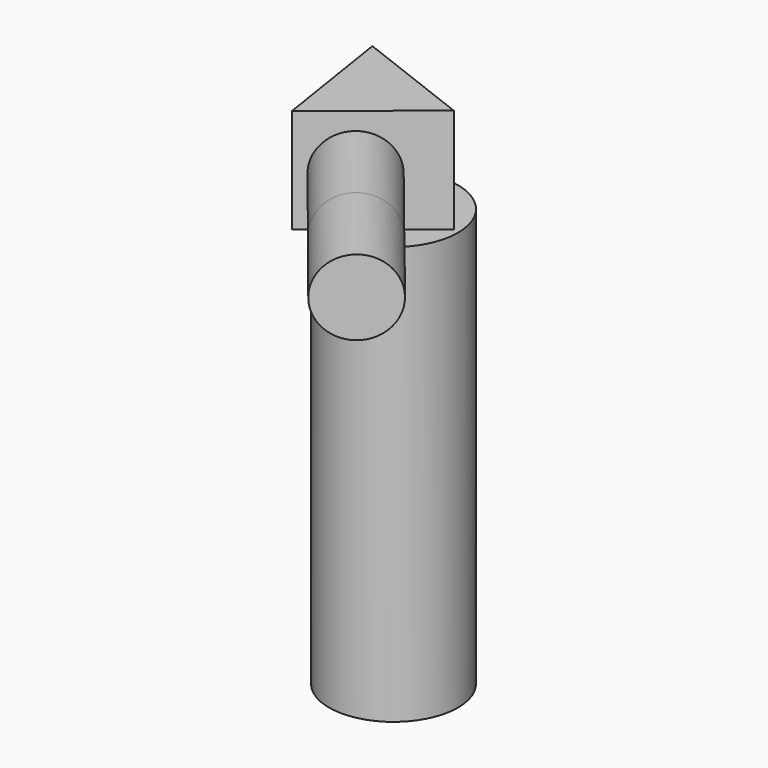
from build123d import *

# Parameters (mm, degrees)
F0_R     = 78.326584
F1_DEPTH = 508
F3_DEPTH = 127
F4_R     = 45.704284
F5_DEPTH = 127
F6_R     = 45.93558
F7_DEPTH = 127


with BuildPart() as f1:
    # F0 (on Top) → F1 (new body)
    with BuildSketch(Plane.XY):
        with Locations((-8.379999, -11.925638)):
            Circle(F0_R)
    extrude(amount=F1_DEPTH)

    # F2 (on face) → F3 (join)
    with BuildSketch(Plane.XY.offset(508)):
        Polygon((-56.977515, -105.344039), (62.533833, -8.963253), (-80.69005, 46.346217), align=None)
    extrude(amount=F3_DEPTH)

    # F4 (on face) → F5 (join)
    with BuildSketch(Plane(origin=(29.023017, -35.988292, 0), x_dir=(0.778411, 0.627755, 0), z_dir=(0.627755, -0.778411, 0))):
        with Locations((-50.197605, 567.723095)):
            Circle(F4_R)
    extrude(amount=F5_DEPTH)

    # F6 (on face) → F7 (join)
    with BuildSketch(Plane(origin=(108.747912, -134.846479, 0), x_dir=(0.778411, 0.627755, 0), z_dir=(0.627755, -0.778411, 0))):
        with Locations((-50.197605, 567.723095)):
            Circle(F6_R)
    extrude(amount=F7_DEPTH)


solid = f1.part
